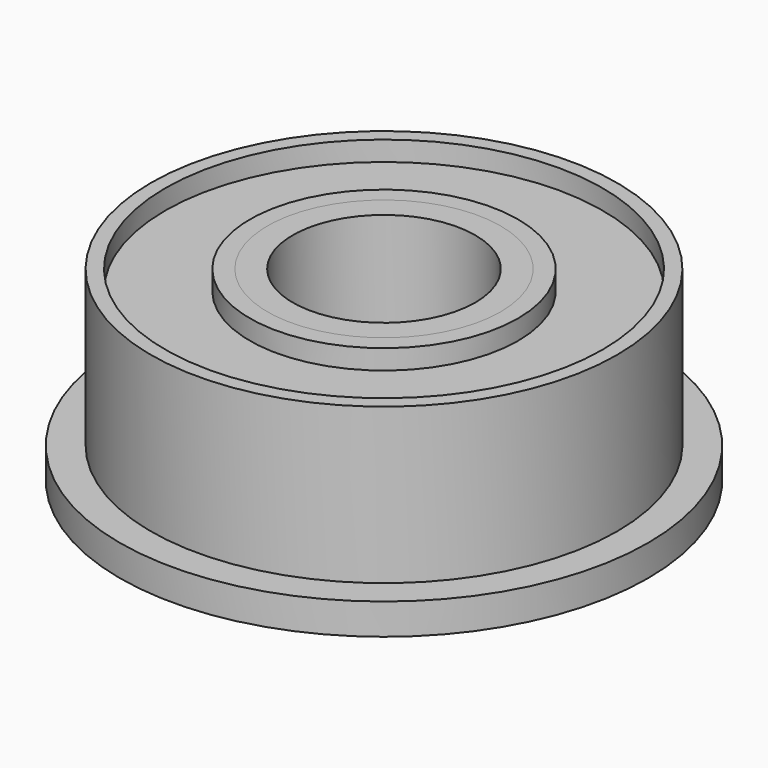
from build123d import *

# Parameters (mm, degrees)
F0_R     = 6.80000037
F1_DEPTH = 0.80000094
F2_R     = 6.0000007
F3_DEPTH = 3.999992
F4_R     = 2.999994
F5_DEPTH = 25.4
F6_R     = 5.6302817243
F6_R_2   = 3.4527411569
F7_DEPTH = 0.508
F8_R     = 2.999994
F8_R_2   = 2.3495
F9_DEPTH = 4.7999904


with BuildPart() as f1:
    # F0 (on Top) → F1 (new body)
    with BuildSketch(Plane.XY):
        with Locations((0, -1.4004084514)):
            Circle(F0_R)
    extrude(amount=F1_DEPTH)

    # F2 (on face) → F3 (join)
    with BuildSketch(Plane.XY.offset(0.80000094)):
        with Locations((0, -1.4004084514)):
            Circle(F2_R)
    extrude(amount=F3_DEPTH)

    # F4 (on face) → F5 (cut)
    with BuildSketch(Plane.XY.offset(4.79999294)):
        with Locations((0, -1.4004084514)):
            Circle(F4_R)
    extrude(amount=-F5_DEPTH, mode=Mode.SUBTRACT)

    # F6 (on face) → F7 (cut)
    with BuildSketch(Plane.XY.offset(4.79999294)):
        with Locations((0, -1.4004084514)):
            Circle(F6_R)
        with Locations((0, -1.4004084514)):
            Circle(F6_R_2, mode=Mode.SUBTRACT)
    extrude(amount=-F7_DEPTH, mode=Mode.SUBTRACT)

    # F8 (on face) → F9 (join)
    with BuildSketch(Plane(origin=(0, 0, 0), x_dir=(1, 0, 0), z_dir=(0, 0, -1))):
        with Locations((0, 1.4004084514)):
            Circle(F8_R)
        with Locations((0, 1.4004084514)):
            Circle(F8_R_2, mode=Mode.SUBTRACT)
    extrude(amount=-F9_DEPTH)


solid = f1.part
